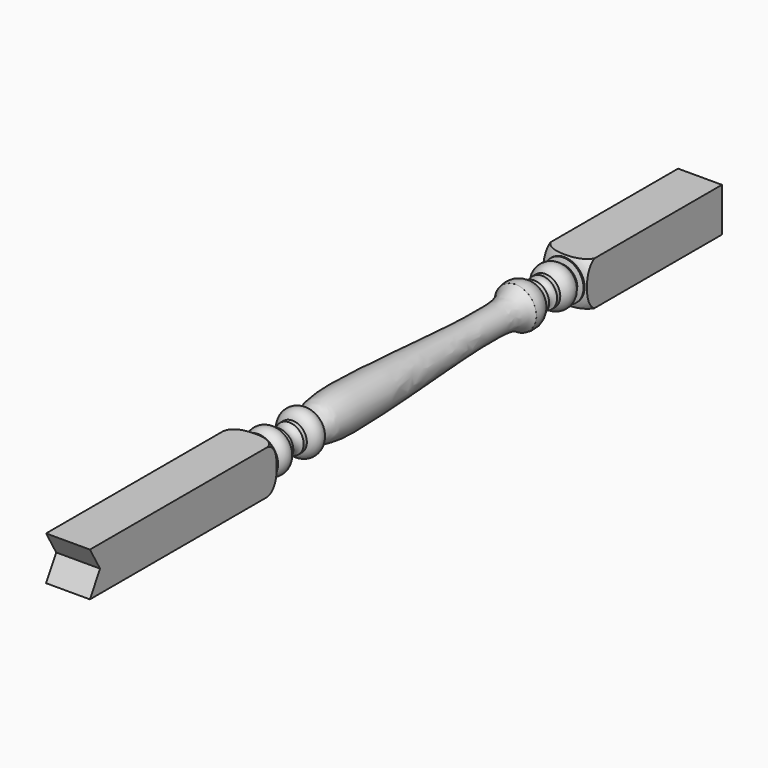
from build123d import *

# Parameters (mm, degrees)
F1_W     = 41.91
F1_H     = 41.91
F2_DEPTH = 329.31024
F3_DEPTH = 569.34836
F6_DEPTH = 43.18


with BuildPart() as f2:
    # F1 (on Front) → F2 (new body)
    with BuildSketch(Plane.XZ):
        with Locations((0, 42.9301898345)):
            Rectangle(F1_W, F1_H)
    extrude(amount=F2_DEPTH)

    # F3 (add): a face of the model
    f3_faces = [f2.faces().sort_by_distance(p)[0] for p in [
        (0, 0, 42.9301898345),
    ]]
    extrude(f3_faces, amount=F3_DEPTH)

    # F0 (on Right) → F4 (revolve, cut)
    with BuildSketch(Plane.YZ):
        with BuildLine():
            Line((-54.8137305173, 13.2756898345), (-278.6512305173, 13.2756898345))
            Line((-278.6512305173, 13.2756898345), (-278.6512305173, 42.9301898345))
            Line((-278.6512305173, 42.9301898345), (-405.6512305173, 42.9301898345))
            Line((-405.6512305173, 42.9301898345), (-405.6512305173, -33.8413101655))
            Line((-405.6512305173, -33.8413101655), (-278.6512305173, -33.8413101655))
            Line((-278.6512305173, -33.8413101655), (508.7487694827, -33.8413101655))
            Line((508.7487694827, -33.8413101655), (642.0987694827, -33.8413101655))
            Line((642.0987694827, -33.8413101655), (642.0987694827, 42.9301898345))
            Line((642.0987694827, 42.9301898345), (489.6987694827, 42.9301898345))
            Line((489.6987694827, 42.9301898345), (489.6987694827, 13.2756898345))
            Line((489.6987694827, 13.2756898345), (337.2987694827, 13.2756898345))
            ThreePointArc((337.2987694827, 13.2756898345), (331.3722676132, 17.4180539782), (327.7737694827, 23.6896898345))
            Line((327.7737694827, 23.6896898345), (326.5037694827, 23.6896898345))
            Line((326.5037694827, 23.6896898345), (325.2337694827, 28.6426898345))
            Line((325.2337694827, 28.6426898345), (323.9637694827, 28.6426898345))
            ThreePointArc((323.9637694827, 28.6426898345), (314.4387694827, 23.438365818), (304.9137694827, 28.6426898345))
            Line((304.9137694827, 28.6426898345), (301.1037694827, 28.6426898345))
            ThreePointArc((301.1037694827, 28.6426898345), (296.3412694827, 33.4051898345), (291.5787694827, 28.6426898345))
            Line((291.5787694827, 28.6426898345), (287.7687694827, 28.6426898345))
            ThreePointArc((287.7687694827, 28.6426898345), (279.4467530499, 22.9306189881), (269.3537694827, 23.0546898345))
            add(Edge.make_bspline(
                [(21.8942694827, 29.2141898345), (28.3680861287, 26.6000460104), (51.5701547121, 16.7139288381), (249.628797136, 36.3670921628), (265.3257044678, 26.0751364496), (269.3537694827, 23.0546898345)],
                knots=[0, 0, 0, 0, 0.2319977817, 0.8102452098, 1, 1, 1, 1], degree=3))
            ThreePointArc((21.8942694827, 29.2141898345), (12.3692694827, 22.2197566023), (2.8442694827, 29.2141898345))
            Line((2.8442694827, 29.2141898345), (-0.9657305173, 29.2141898345))
            ThreePointArc((-0.9657305173, 29.2141898345), (-7.1252305173, 32.7122383807), (-13.2847305173, 29.2141898345))
            Line((-13.2847305173, 29.2141898345), (-17.0947305173, 29.2141898345))
            ThreePointArc((-17.0947305173, 29.2141898345), (-26.6197305173, 22.4321809186), (-36.1447305173, 29.2141898345))
            Line((-36.1447305173, 29.2141898345), (-38.4307305173, 23.6896898345))
            Line((-38.4307305173, 23.6896898345), (-41.6057305173, 23.6896898345))
            ThreePointArc((-41.6057305173, 23.6896898345), (-46.4038752866, 16.1923368591), (-54.8137305173, 13.2756898345))
        make_face()
    revolve(axis=Axis((0, 165.8487694827, 42.9301898345), (0, 1, 0)), mode=Mode.SUBTRACT)

    # F5 (on face) → F6 (cut)
    with BuildSketch(Plane.YZ.offset(20.955)):
        Polygon((-265.3416305173, 63.8851898345), (-278.6512305173, 63.8851898345), (-278.6512305173, 21.9751898345), (-265.3416305173, 21.9751898345), (-253.2432556264, 42.9301898345), align=None)
    extrude(amount=-F6_DEPTH, mode=Mode.SUBTRACT)


solid = f2.part
